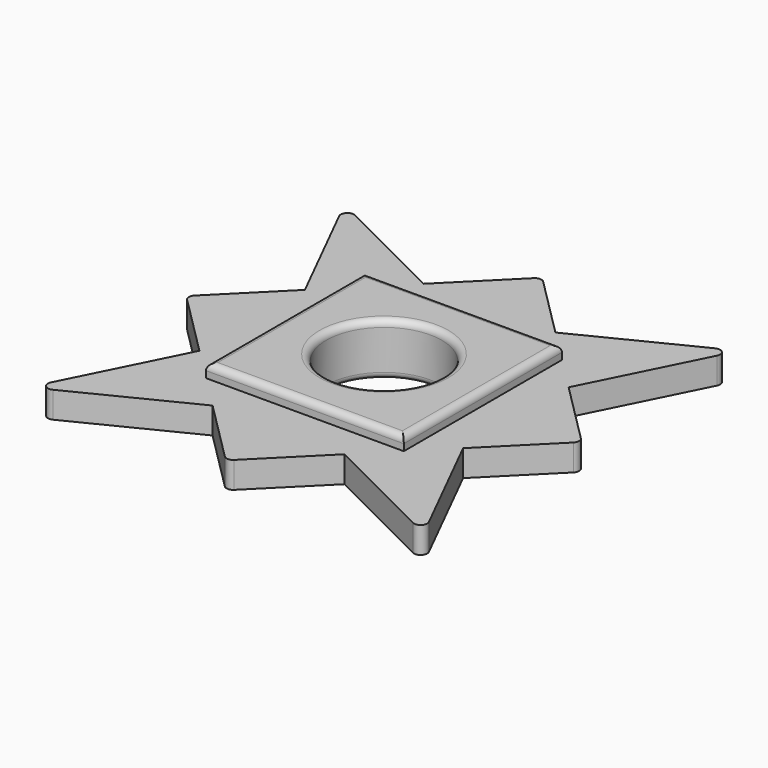
from build123d import *

# Parameters (mm, degrees)
F1_DEPTH = 5.08
F2_R     = 1.27
F3_DEPTH = 2.54
F4_R     = 1.27


with BuildPart() as f1:
    # F0 (on Top) → F1 (new body, symmetric)
    with BuildSketch(Plane.XY):
        with BuildLine():
            Line((19.05, 19.05), (-19.05, 19.05))
            Line((-19.05, 19.05), (-19.05, 0))
            Line((-19.05, 0), (-11.125, 0))
            ThreePointArc((-11.125, 0), (0, 11.125), (11.125, 0))
            Line((11.125, 0), (19.05, 0))
            Line((19.05, 0), (19.05, 19.05))
        make_face()
        with BuildLine():
            Line((-11.125, 0), (-19.05, 0))
            Line((-19.05, 0), (-19.05, -19.05))
            Line((-19.05, -19.05), (19.05, -19.05))
            Line((19.05, -19.05), (19.05, 0))
            Line((19.05, 0), (11.125, 0))
            ThreePointArc((11.125, 0), (0, -11.125), (-11.125, 0))
        make_face()
    extrude(amount=F1_DEPTH, both=True)

    # F2
    f2_edges = [f1.edges().sort_by_distance(p)[0] for p in [
        (19.05, 0, 5.08),
        (0, -19.05, 5.08),
        (-19.05, 0, 5.08),
        (0, 19.05, 5.08),
        (-11.125, 0, 5.08),
        (-11.125, 0, -5.08),
        (19.05, 0, -5.08),
        (0, -19.05, -5.08),
        (0, 19.05, -5.08),
        (-19.05, 0, -5.08),
    ]]
    fillet(f2_edges, radius=F2_R)

    # F0 (on Top) → F3 (join, symmetric)
    with BuildSketch(Plane.XY):
        Polygon((-12.7, -25.4), (-19.05, -19.05), (-25.4, -12.7), (-38.1, -38.1), align=None)
        Polygon((19.05, -19.05), (-19.05, -19.05), (-12.7, -25.4), (0, -38.1), (12.7, -25.4), align=None)
        Polygon((25.4, -12.7), (19.05, -19.05), (12.7, -25.4), (38.1, -38.1), align=None)
        Polygon((38.1, 0), (19.05, 0), (19.05, -19.05), (25.4, -12.7), align=None)
        Polygon((25.4, 12.7), (19.05, 19.05), (19.05, 0), (38.1, 0), align=None)
        Polygon((-12.7, 25.4), (-19.05, 19.05), (19.05, 19.05), (12.7, 25.4), (0, 38.1), align=None)
        Polygon((-19.05, 0), (-19.05, 19.05), (-25.4, 12.7), (-38.1, 0), (-25.4, -12.7), (-19.05, -19.05), align=None)
        Polygon((-25.4, 12.7), (-19.05, 19.05), (-12.7, 25.4), (-38.1, 38.1), align=None)
        Polygon((12.7, 25.4), (19.05, 19.05), (25.4, 12.7), (38.1, 38.1), align=None)
    extrude(amount=F3_DEPTH, both=True)

    # F4
    f4_edges = [f1.edges().sort_by_distance(p)[0] for p in [
        (-38.1, -38.1, 0),
        (-38.1, 0, 0),
        (-38.1, 38.1, 0),
        (0, 38.1, 0),
        (38.1, 38.1, 0),
        (38.1, 0, 0),
        (38.1, -38.1, 0),
        (0, -38.1, 0),
    ]]
    fillet(f4_edges, radius=F4_R)


solid = f1.part
